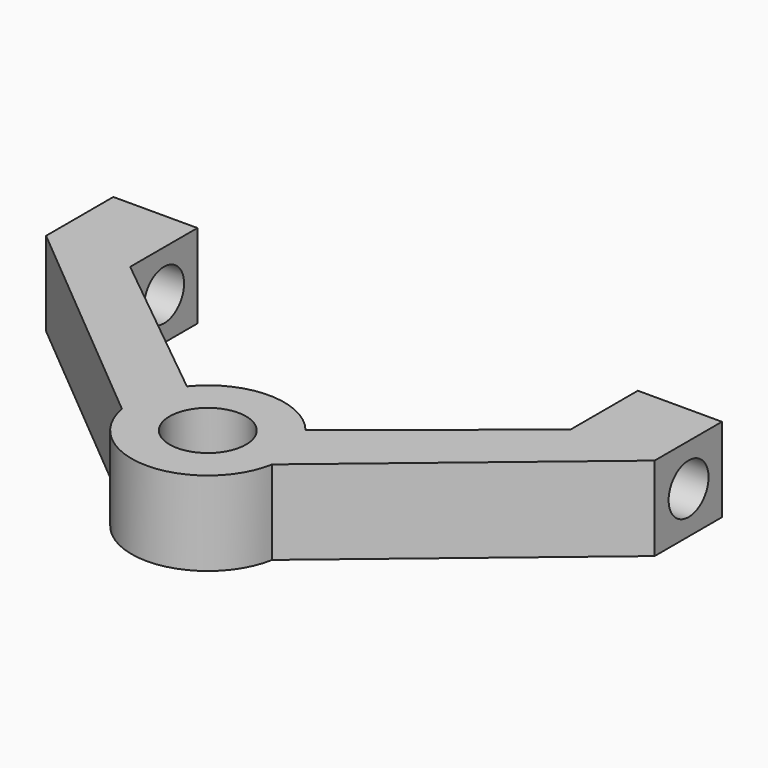
from build123d import *

# Parameters (mm, degrees)
F0_W     = 7.6200012118
F0_H     = 7.6199993491
F1_DEPTH = 3.81
F2_R     = 2.2630247345
F3_DEPTH = 28.702
F4_R     = 3.4661876641
F5_DEPTH = 6.096


with BuildPart() as f1:
    # F0 (on Top) → F1 (new body, symmetric)
    with BuildSketch(Plane.XY):
        with Locations((-23.7671425566, 19.9571419507)):
            Rectangle(F0_W, F0_H)
        with Locations((23.7671425566, 19.9571419507)):
            Rectangle(F0_W, F0_H)
        with BuildLine():
            ThreePointArc((-6.8066905284, -1.2232744461), (-6.6986512028, 1.719159208), (-5.3763601299, 4.3499641462))
            Line((-5.3763601299, 4.3499641462), (-19.9571419507, 16.1471422762))
            Line((-19.9571419507, 16.1471422762), (-27.5771431625, 16.1471422762))
            Line((-27.5771431625, 16.1471422762), (-6.8066905284, -1.2232744461))
        make_face()
        with BuildLine():
            ThreePointArc((5.3763601299, 4.3499641462), (6.5195450768, 2.3071558921), (6.9157383062, 0))
            ThreePointArc((6.9157383062, 0), (6.8884224154, -0.6140626573), (6.8066905284, -1.2232744461))
            Line((6.8066905284, -1.2232744461), (27.5771431625, 16.1471422762))
            Line((27.5771431625, 16.1471422762), (19.9571419507, 16.1471422762))
            Line((19.9571419507, 16.1471422762), (5.3763601299, 4.3499641462))
        make_face()
        with BuildLine():
            Line((0, 0), (5.3763601299, 4.3499641462))
            ThreePointArc((5.3763601299, 4.3499641462), (0, 6.9157383062), (-5.3763601299, 4.3499641462))
            Line((-5.3763601299, 4.3499641462), (0, 0))
        make_face()
        with BuildLine():
            ThreePointArc((0, -6.9157383062), (4.4366423325, -5.3050580706), (6.8066905284, -1.2232744461))
            Line((6.8066905284, -1.2232744461), (0, -6.9157383062))
        make_face()
        with BuildLine():
            ThreePointArc((-6.8066905284, -1.2232744461), (-4.4366423325, -5.3050580706), (0, -6.9157383062))
            Line((0, -6.9157383062), (-6.8066905284, -1.2232744461))
        make_face()
        with BuildLine():
            ThreePointArc((6.8066905284, -1.2232744461), (6.8884224154, -0.6140626573), (6.9157383062, 0))
            ThreePointArc((6.9157383062, 0), (6.5195450768, 2.3071558921), (5.3763601299, 4.3499641462))
            Line((5.3763601299, 4.3499641462), (0, 0))
            Line((0, 0), (-5.3763601299, 4.3499641462))
            ThreePointArc((-5.3763601299, 4.3499641462), (-6.6986512028, 1.719159208), (-6.8066905284, -1.2232744461))
            Line((-6.8066905284, -1.2232744461), (0, -6.9157383062))
            Line((0, -6.9157383062), (6.8066905284, -1.2232744461))
        make_face()
    extrude(amount=F1_DEPTH, both=True)

    # F2 (on Right) → F3 (cut, symmetric)
    with BuildSketch(Plane.YZ):
        with Locations((19.9902858585, 0)):
            Circle(F2_R)
    extrude(amount=F3_DEPTH, both=True, mode=Mode.SUBTRACT)

    # F4 (on Top) → F5 (cut, symmetric)
    with BuildSketch(Plane.XY):
        Circle(F4_R)
    extrude(amount=F5_DEPTH, both=True, mode=Mode.SUBTRACT)


solid = f1.part
